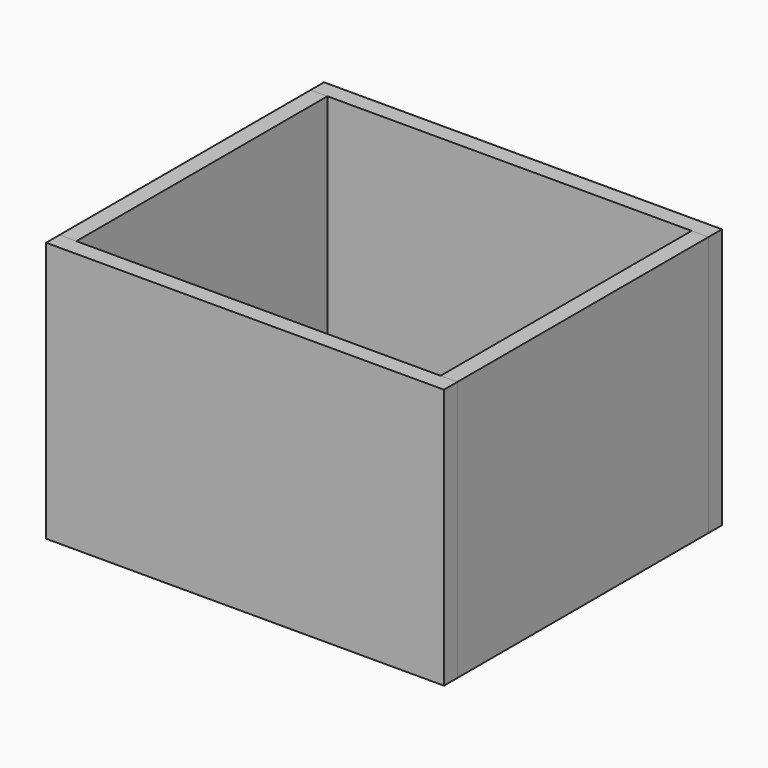
from build123d import *

# Parameters (mm, degrees)
F0_W     = 450.85
F0_H     = 295.275
F1_DEPTH = 19.05
F2_W     = 355.6
F2_H     = 295.275
F3_DEPTH = 19.05
F8_W     = 412.75
F8_H     = 355.6
F9_DEPTH = 19.05


with BuildPart() as f1:
    # F0 (on Front) → F1 (new body)
    with BuildSketch(Plane.XZ):
        with Locations((225.425, 147.6375)):
            Rectangle(F0_W, F0_H)
    extrude(amount=-F1_DEPTH)


with BuildPart() as f3:
    # F2 (on Right) → F3 (new body)
    with BuildSketch(Plane.YZ):
        with Locations((196.85, 147.6375)):
            Rectangle(F2_W, F2_H)
    extrude(amount=F3_DEPTH)


with BuildPart() as f5_1:
    # F5: instance of F1
    add(f1.part.mirror(Plane.XZ.offset(-196.85)))


with BuildPart() as f7_1:
    # F7: instance of F3
    add(f3.part.mirror(Plane.YZ.offset(225.425)))


with BuildPart() as f9:
    # F8 (on Top) → F9 (new body)
    with BuildSketch(Plane.XY):
        with Locations((225.425, 196.85)):
            Rectangle(F8_W, F8_H)
    extrude(amount=F9_DEPTH)


solid = Compound([f1.part, f3.part, f5_1.part, f7_1.part, f9.part])
